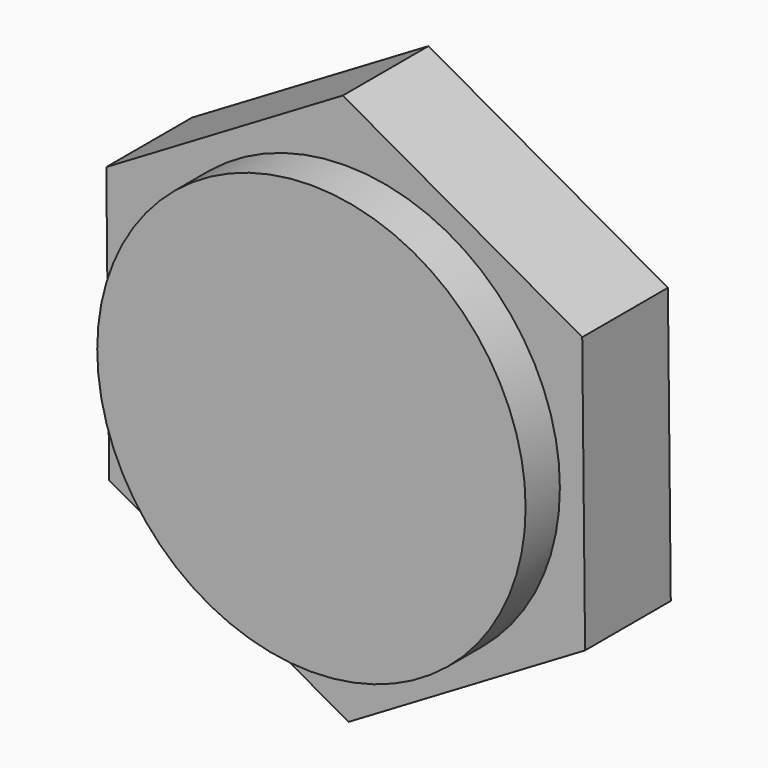
from build123d import *

# Parameters (mm, degrees)
F1_DEPTH = 2.5
F2_R     = 5
F3_DEPTH = 3.5


with BuildPart() as f1:
    # F0 (on Front) → F1 (new body)
    with BuildSketch(Plane.XZ):
        Polygon((-0.067167, 6.41401), (-5.588279, 3.148836), (-5.521112, -3.265174), (0.067167, -6.41401), (5.588279, -3.148836), (5.521112, 3.265174), align=None)
    extrude(amount=F1_DEPTH)

    # F2 (on Front) → F3 (join)
    with BuildSketch(Plane.XZ):
        Circle(F2_R)
    extrude(amount=F3_DEPTH)


solid = f1.part
